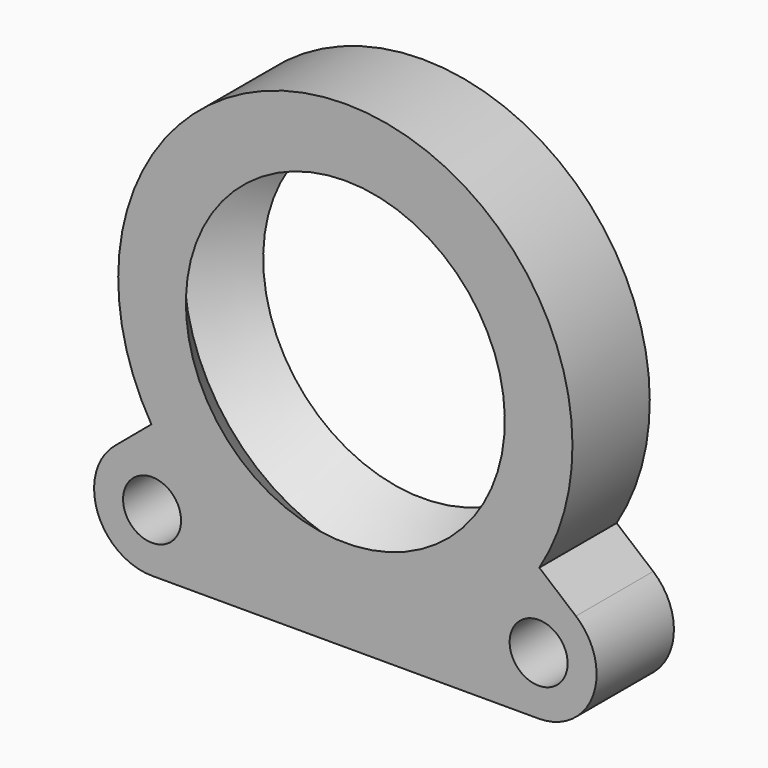
from build123d import *

# Parameters (mm, degrees)
SKETCH017_R  = 1.5
PAD008_DEPTH = 2.5


with BuildPart() as outerbearing:
    # Sketch007 → Revolution001 (revolve)
    with BuildSketch(Plane.YZ):
        Polygon((-2.5, 8.251111), (0, 10.34886), (2.5, 8.251111), (2.5, 11.751111), (-2.5, 11.751111), align=None)
    revolve(axis=Axis((0, 0, 0), (0, 1, 0)))


with BuildPart() as fusion001:
    # Sketch017 → Pad008 (new body, symmetric)
    with BuildSketch(Plane.XZ):
        with BuildLine():
            ThreePointArc((-9.84093, -5.950302), (0, -11.5), (9.84093, -5.950302))
            Line((11.928352, -7.701857), (9.84093, -5.950302))
            ThreePointArc((9.999998, -13), (12.81908, -11.026055), (11.928352, -7.701857))
            Line((-10, -13), (9.999998, -13))
            ThreePointArc((-11.928369, -7.701871), (-12.819077, -11.026064), (-10, -13))
            Line((-9.84093, -5.950302), (-11.928369, -7.701871))
        make_face()
        with Locations((10, -10)):
            Circle(SKETCH017_R, mode=Mode.SUBTRACT)
        with Locations((-10, -10)):
            Circle(SKETCH017_R, mode=Mode.SUBTRACT)
    extrude(amount=PAD008_DEPTH, both=True)

    # Fusion001: union OuterBearing
    add(outerbearing.part)


solid = fusion001.part
